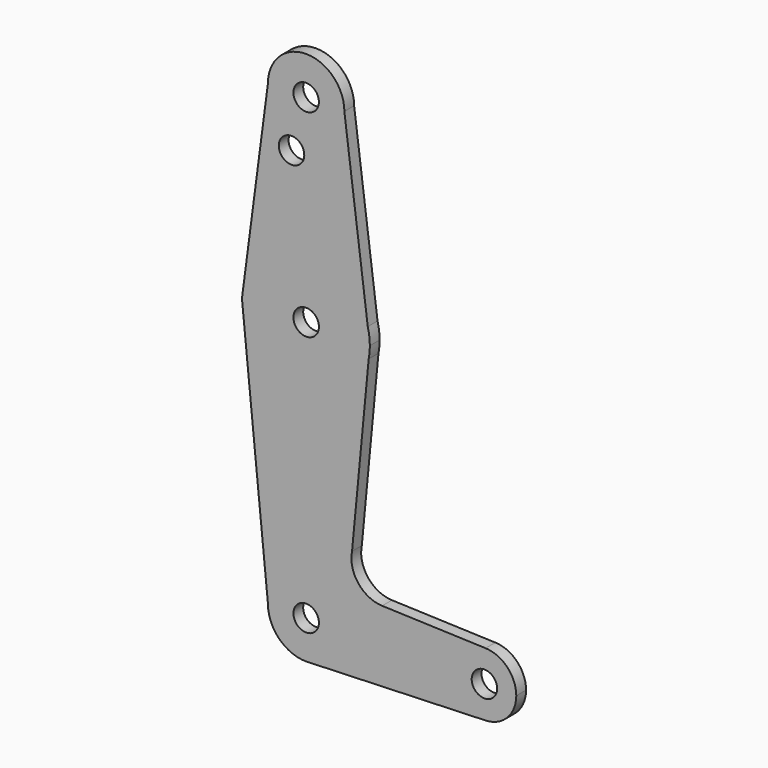
from build123d import *

# Parameters (mm, degrees)
F0_R     = 3.175
F1_DEPTH = 3.048


with BuildPart() as f1:
    # F0 (on Front) → F1 (new body)
    with BuildSketch(Plane.XZ):
        with BuildLine():
            ThreePointArc((-37.4152575374, 88.7288995862), (-27.8902575374, 79.2038995862), (-18.3652575374, 88.7288995862))
            ThreePointArc((-18.3652575374, 88.7288995862), (-27.8902575374, 98.2538995862), (-37.4152575374, 88.7288995862))
        make_face()
        with Locations((-27.8902575374, 88.7288995862)):
            Circle(F0_R, mode=Mode.SUBTRACT)
        with BuildLine():
            Line((-12.5322954546, 43.3938031865), (-18.3652575374, 88.7288995862))
            ThreePointArc((-18.3652575374, 88.7288995862), (-27.8902575374, 79.2038995862), (-37.4152575374, 88.7288995862))
            Line((-37.4152575374, 88.7288995862), (-43.6298985813, 41.4439208202))
            ThreePointArc((-43.6298985813, 41.4439208202), (-28.8837010526, 55.2191530204), (-12.5322954546, 43.3938031865))
        make_face()
        with Locations((-31.5380729735, 75.9004679229)):
            Circle(F0_R, mode=Mode.SUBTRACT)
        with BuildLine():
            Line((-12.0152575374, 39.3752679229), (-12.5322954546, 43.3938031865))
            ThreePointArc((-12.5322954546, 43.3938031865), (-28.8837010526, 55.2191530204), (-43.6298985813, 41.4439208202))
            ThreePointArc((-43.6298985813, 41.4439208202), (-30.4248038378, 23.7039023139), (-12.3009547105, 36.3770580614))
            Line((-12.3009547105, 36.3770580614), (-12.0152575374, 39.3752679229))
        make_face()
        with Locations((-27.8902575374, 39.3752679229)):
            Circle(F0_R, mode=Mode.SUBTRACT)
        with BuildLine():
            ThreePointArc((-12.0152575374, 39.3752679229), (-12.1450475822, 41.4010982386), (-12.5322954546, 43.3938031865))
            Line((-12.5322954546, 43.3938031865), (-12.0152575374, 39.3752679229))
        make_face()
        with BuildLine():
            ThreePointArc((-12.3009547105, 36.3770580614), (-30.4248038378, 23.7039023139), (-43.6298985813, 41.4439208202))
            Line((-43.6298985813, 41.4439208202), (-43.901780594, 39.3752679229))
            Line((-43.901780594, 39.3752679229), (-37.4152575374, -25.5711004138))
            ThreePointArc((-37.4152575374, -25.5711004138), (-27.8902575374, -16.0461004138), (-18.3652575374, -25.5711004138))
            ThreePointArc((-18.3652575374, -25.5711004138), (-20.9325761691, -32.0761980286), (-27.2505688188, -35.0745957362))
            Line((-27.2505688188, -35.0745957362), (16.8423757425, -33.5035669078))
            ThreePointArc((16.8423757425, -33.5035669078), (8.6222424627, -25.5710841185), (16.8424083125, -17.6386350803))
            Line((16.8424083125, -17.6386350803), (-8.9456344702, -16.7197027278))
            ThreePointArc((-8.9456344702, -16.7197027278), (-14.9098216874, -13.6915421065), (-16.4517406233, -7.1827963053))
            Line((-16.4517406233, -7.1827963053), (-12.3009547105, 36.3770580614))
        make_face()
        with BuildLine():
            ThreePointArc((-12.3009547105, 36.3770580614), (-12.0868432326, 37.8693724046), (-12.0152575374, 39.3752679229))
            Line((-12.0152575374, 39.3752679229), (-12.3009547105, 36.3770580614))
        make_face()
        with BuildLine():
            ThreePointArc((-18.3652575374, -25.5711004138), (-27.8902575374, -16.0461004138), (-37.4152575374, -25.5711004138))
            ThreePointArc((-37.4152575374, -25.5711004138), (-34.6118975065, -32.3198174123), (-27.8519649126, -35.096023441))
            Line((-27.8519649126, -35.096023441), (-27.2505688188, -35.0745957362))
            ThreePointArc((-27.2505688188, -35.0745957362), (-20.9325761691, -32.0761980286), (-18.3652575374, -25.5711004138))
        make_face()
        with Locations((-27.8902575374, -25.5711004138)):
            Circle(F0_R, mode=Mode.SUBTRACT)
        with BuildLine():
            Line((-27.2505688188, -35.0745957362), (-27.8519649126, -35.096023441))
            ThreePointArc((-27.8519649126, -35.096023441), (-27.5510976015, -35.0900602066), (-27.2505688188, -35.0745957362))
        make_face()
        with BuildLine():
            ThreePointArc((24.4972424626, -25.5711004138), (22.2714657767, -20.0592837411), (16.8424083125, -17.6386350803))
            ThreePointArc((16.8424083125, -17.6386350803), (8.6222424627, -25.5710841185), (16.8423757425, -33.5035669078))
            ThreePointArc((16.8423757425, -33.5035669078), (22.2714544612, -31.0829288124), (24.4972424626, -25.5711004138))
        make_face()
        with Locations((16.5597424626, -25.5711004138)):
            Circle(F0_R, mode=Mode.SUBTRACT)
    extrude(amount=F1_DEPTH)


solid = f1.part
